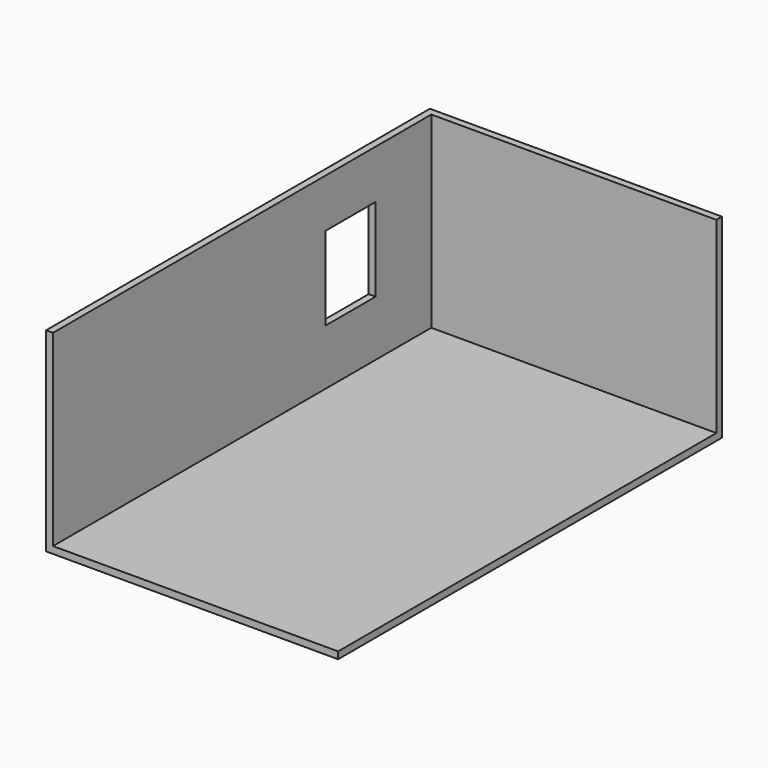
from build123d import *

# Parameters (mm, degrees)
F0_W     = 4200
F0_H     = 6900
F1_DEPTH = 2800
F2_T     = -100
F3_W     = 900
F3_H     = 1200
F4_DEPTH = 100.001


with BuildPart() as f1:
    # F0 (on Top) → F1 (new body)
    with BuildSketch(Plane.XY):
        Rectangle(F0_W, F0_H)
    extrude(amount=F1_DEPTH)

    # F2
    f2_openings = [f1.faces().sort_by_distance(p)[0] for p in [
        (0, 0, 2800),
        (2100, 0, 1400),
        (0, -3450, 1400),
    ]]
    offset(amount=F2_T, openings=f2_openings)

    # F3 (on face) → F4 (cut, through all)
    with BuildSketch(Plane.YZ.offset(-2000)):
        with Locations((1900, 1500)):
            Rectangle(F3_W, F3_H)
    extrude(amount=-F4_DEPTH, mode=Mode.SUBTRACT)


solid = f1.part
